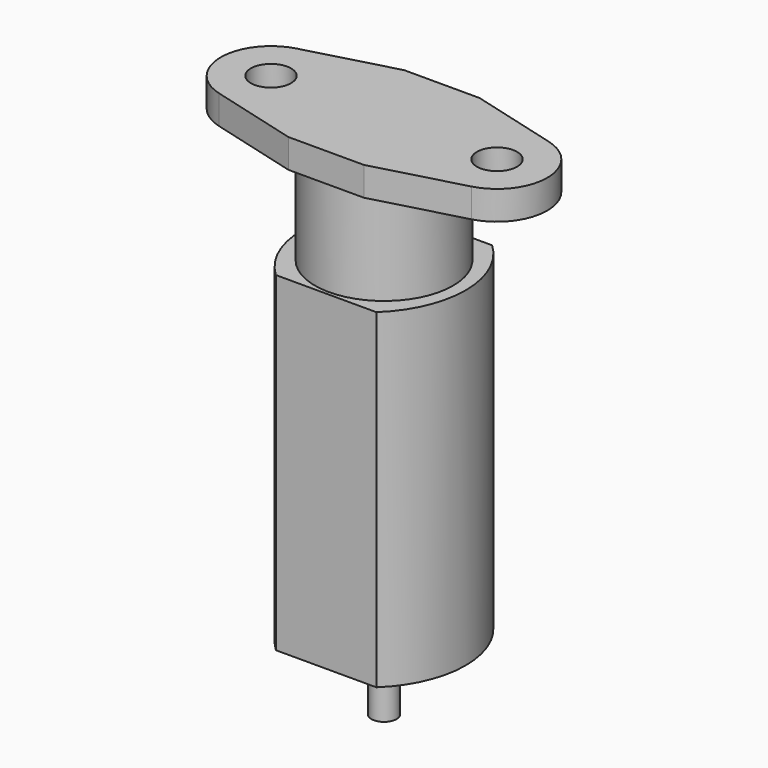
from build123d import *

# Parameters (mm, degrees)
F0_R     = 1.6
F1_DEPTH = 2.3
F2_R     = 5.5
F3_DEPTH = 7.7
F5_DEPTH = 26.3
F6_R     = 1
F7_DEPTH = 5.55


with BuildPart() as f1:
    # F0 (on Top) → F1 (new body)
    with BuildSketch(Plane.XY):
        with BuildLine():
            Line((3, 5.765), (-3, 5.765))
            Line((-3, 5.765), (-10.043565, 3.861473))
            ThreePointArc((-10.043565, 3.861473), (-13, 0), (-10.043565, -3.861473))
            Line((-10.043565, -3.861473), (-3, -5.765))
            Line((-3, -5.765), (3, -5.765))
            Line((3, -5.765), (10.043565, -3.861473))
            ThreePointArc((10.043565, -3.861473), (13, 0), (10.043565, 3.861473))
            Line((10.043565, 3.861473), (3, 5.765))
        make_face()
        with Locations((-9, 0)):
            Circle(F0_R, mode=Mode.SUBTRACT)
        with Locations((9, 0)):
            Circle(F0_R, mode=Mode.SUBTRACT)
    extrude(amount=-F1_DEPTH)

    # F2 (on face) → F3 (join)
    with BuildSketch(Plane(origin=(0, 0, -2.3), x_dir=(1, 0, 0), z_dir=(0, 0, -1))):
        Circle(F2_R)
    extrude(amount=F3_DEPTH)

    # F4 (on face) → F5 (join)
    with BuildSketch(Plane(origin=(0, 0, -10), x_dir=(1, 0, 0), z_dir=(0, 0, -1))):
        with BuildLine():
            Line((4, 5.765), (-4, 5.765))
            ThreePointArc((-4, 5.765), (-6.5, 0), (-4, -5.765))
            Line((-4, -5.765), (4, -5.765))
            ThreePointArc((4, -5.765), (6.5, 0), (4, 5.765))
        make_face()
    extrude(amount=F5_DEPTH)

    # F6 (on face) → F7 (join)
    with BuildSketch(Plane(origin=(0, 0, -36.3), x_dir=(1, 0, 0), z_dir=(0, 0, -1))):
        Circle(F6_R)
    extrude(amount=F7_DEPTH)


solid = f1.part
